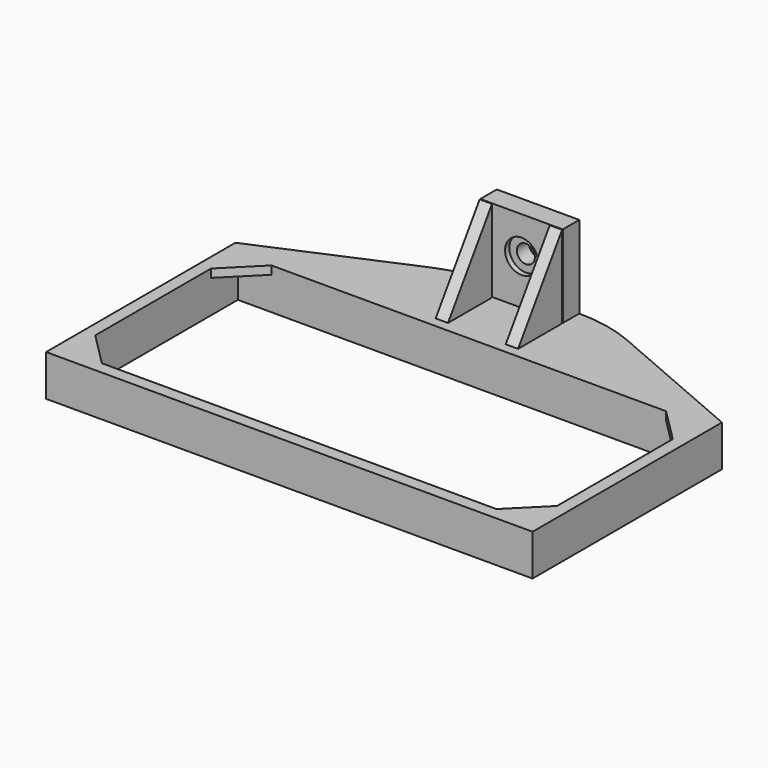
from build123d import *

# Parameters (mm, degrees)
PAD003_DEPTH      = 2
BOX005_W          = 112
BOX005_H          = 51.4
BOX005_DEPTH      = 10
BOX004_W          = 118
BOX004_H          = 57.4
BOX004_DEPTH      = 10
PAD004_DEPTH      = 3
ARRAY001_X_COUNT  = 2
ARRAY001_X_PITCH  = 17
CYLINDER001_R     = 4
CYLINDER001_DEPTH = 30
CYLINDER_R        = 2.2
CYLINDER_DEPTH    = 30
BOX006_W          = 20
BOX006_H          = 5
BOX006_DEPTH      = 30
BOX007_W          = 6
BOX007_H          = 4
BOX007_DEPTH      = 10
PAD002_DEPTH      = 10


with BuildPart() as body003:
    # Sketch003 → Pad003 (new body)
    with BuildSketch(Plane.XY):
        Polygon((-59, -28.7), (-44.857864, -28.7), (-59, -14.557864), align=None)
    extrude(amount=PAD003_DEPTH)


with BuildPart() as part_mirroring001:
    # Part__Mirroring001: instance of Body003
    add(body003.part.mirror(Plane(origin=(0, 0, 0), x_dir=(1, 0, 0), z_dir=(0, 1, 0))))


with BuildPart() as fusion005:
    # Fusion005 base: copy of Body003
    add(body003.part)

    # Fusion005: union Part__Mirroring001
    add(part_mirroring001.part)


with BuildPart() as corners_fusion:
    # Part__Mirroring002: instance of Fusion005
    add(fusion005.part.mirror(Plane(origin=(0, 0, 0), x_dir=(0, -1, 0), z_dir=(1, 0, 0))))

    # Fusion006: union Fusion005
    add(fusion005.part)


with BuildPart() as corners_fusion_1:
    # Fusion006 placement: moved
    add(corners_fusion.part.moved(Location((0, 0, 8))))


with BuildPart() as middle_pocket_cube:
    # Box005 → Box005 (new body)
    with BuildSketch(Plane(origin=(-56, -25.7, 0), x_dir=(1, 0, 0), z_dir=(0, 0, 1))):
        with Locations((56, 25.7)):
            Rectangle(BOX005_W, BOX005_H)
    extrude(amount=BOX005_DEPTH)


with BuildPart() as middle_external:
    # Box004 → Box004 (new body)
    with BuildSketch(Plane(origin=(-59, -28.7, 0), x_dir=(1, 0, 0), z_dir=(0, 0, 1))):
        with Locations((59, 28.7)):
            Rectangle(BOX004_W, BOX004_H)
    extrude(amount=BOX004_DEPTH)


with BuildPart() as triangles_array:
    # Sketch004 → Pad004 (new body)
    with BuildSketch(Plane.YZ):
        Polygon((41.5, 30), (27.205015, 8.579618), (41.5, 0), align=None)
    extrude(amount=PAD004_DEPTH)

    # Array001 X: triangles array ×2


with BuildPart() as triangles_array_1:
    add(triangles_array.part)
    with Locations(*[(i * ARRAY001_X_PITCH, 0, 0) for i in range(1, ARRAY001_X_COUNT)]):
        add(triangles_array.part)


with BuildPart() as triangles_array_2:
    # Array001 placement: moved
    add(triangles_array_1.part.moved(Location((-10, 0, 0))))


with BuildPart() as bolt_head_hole:
    # Cylinder001 → Cylinder001 (new body)
    with BuildSketch(Plane.XZ.offset(14)):
        Circle(CYLINDER001_R)
    extrude(amount=CYLINDER001_DEPTH)


with BuildPart() as bolt_fusion_clone:
    # Cylinder → Cylinder (new body)
    with BuildSketch(Plane.XZ):
        Circle(CYLINDER_R)
    extrude(amount=CYLINDER_DEPTH)

    # Fusion002: union bolt head hole
    add(bolt_head_hole.part)


with BuildPart() as bolt_fusion_clone_1:
    # Body005 placement: moved
    add(bolt_fusion_clone.part.moved(Location((0, 57, 21))))


with BuildPart() as middle_attach_cube:
    # Box006 → Box006 (new body)
    with BuildSketch(Plane(origin=(-10, 0, 0), x_dir=(1, 0, 0), z_dir=(0, 0, 1))):
        with Locations((10, 2.5)):
            Rectangle(BOX006_W, BOX006_H)
    extrude(amount=BOX006_DEPTH)


with BuildPart() as middle_attach_cut:
    # Box007 → Box007 (new body)
    with BuildSketch(Plane(origin=(-3, 5, 0), x_dir=(1, 0, 0), z_dir=(0, 0, 1))):
        with Locations((3, 2)):
            Rectangle(BOX007_W, BOX007_H)
    extrude(amount=BOX007_DEPTH)

    # Fusion008: union middle attach cube
    add(middle_attach_cube.part)


with BuildPart() as middle_attach_cut_1:
    # Fusion008 placement: moved
    add(middle_attach_cut.part.moved(Location((0, 41.7, 0))))

    # Cut002: cut bolt fusion clone
    add(bolt_fusion_clone_1.part, mode=Mode.SUBTRACT)


with BuildPart() as middle_with_corners:
    # Sketch002 → Pad002 (new body)
    with BuildSketch(Plane.XY):
        with BuildLine():
            Line((-59, 28.7), (59, 28.7))
            Line((59, 28.7), (23.942659, 43.821249))
            ThreePointArc((23.942659, 43.821249), (17.118373, 45.972801), (10, 46.7))
            Line((10, 46.7), (-10, 46.7))
            ThreePointArc((-10, 46.7), (-17.118373, 45.972801), (-23.942659, 43.821249))
            Line((-23.942659, 43.821249), (-59, 28.7))
        make_face()
    extrude(amount=PAD002_DEPTH)

    # Fusion004: union middle external, triangles array, middle attach cut
    add(middle_external.part)
    add(triangles_array_2.part)
    add(middle_attach_cut_1.part)

    # Cut: cut middle pocket cube
    add(middle_pocket_cube.part, mode=Mode.SUBTRACT)

    # Fusion007: union corners fusion
    add(corners_fusion_1.part)


solid = middle_with_corners.part
